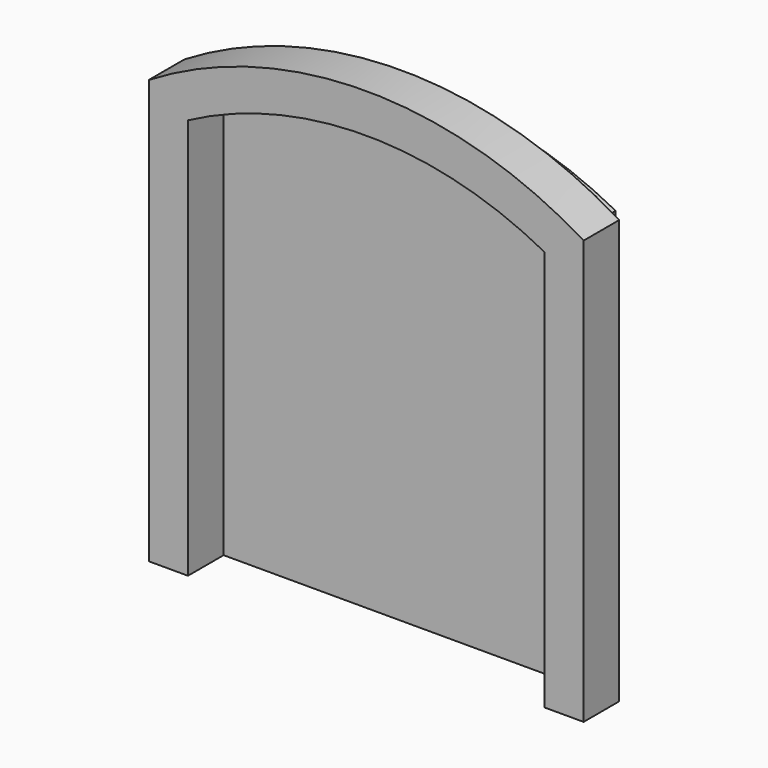
from build123d import *

# Parameters (mm, degrees)
F0_W     = 203.2
F0_H     = 228.6
F1_DEPTH = 25.4
F3_DEPTH = 25.4


with BuildPart() as f1:
    # F0 (on Front) → F1 (new body)
    with BuildSketch(Plane.XZ):
        Rectangle(F0_W, F0_H)
        with BuildLine():
            Line((-101.6, 114.3), (101.6, 114.3))
            ThreePointArc((101.6, 114.3), (0, 139.7), (-101.6, 114.3))
        make_face()
    extrude(amount=F1_DEPTH)

    # F2 (on face) → F3 (join)
    with BuildSketch(Plane.XZ.offset(25.4)):
        with BuildLine():
            ThreePointArc((123.952, 127.269696), (0, 162.052), (-123.952, 127.269696))
            Line((-123.952, 127.269696), (-123.952, -114.3))
            Line((-123.952, -114.3), (-101.6, -114.3))
            Line((-101.6, -114.3), (-101.6, 114.3))
            ThreePointArc((-101.6, 114.3), (0, 139.7), (101.6, 114.3))
            Line((101.6, 114.3), (101.6, -114.3))
            Line((101.6, -114.3), (123.952, -114.3))
            Line((123.952, -114.3), (123.952, 127.269696))
        make_face()
    extrude(amount=F3_DEPTH)


solid = f1.part
